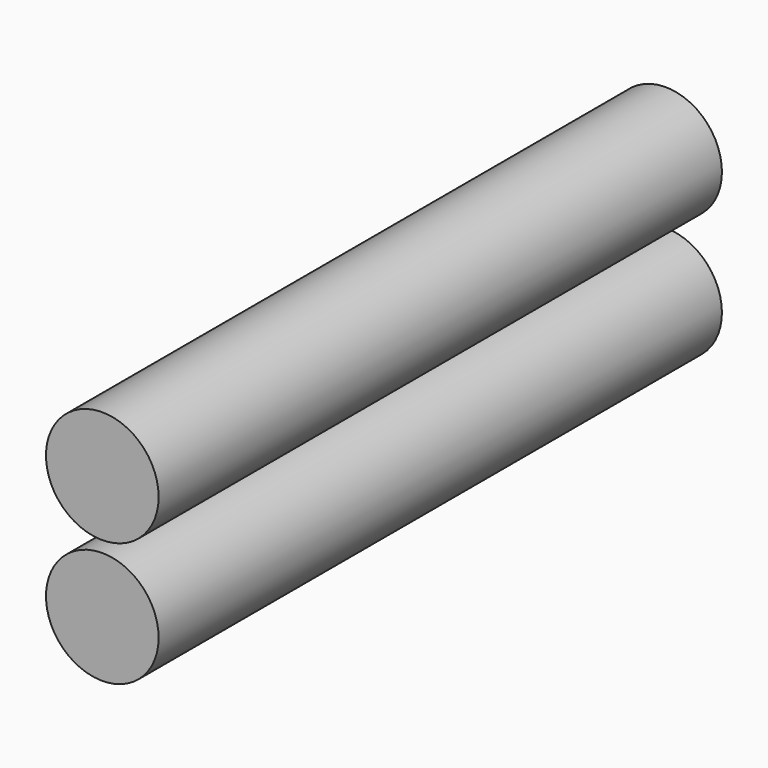
from build123d import *

# Parameters (mm, degrees)
CYLINDER001_R     = 4
CYLINDER001_DEPTH = 50
CYLINDER_R        = 4
CYLINDER_DEPTH    = 50


with BuildPart() as cylinder001:
    # Cylinder001 → Cylinder001 (new body)
    with BuildSketch(Plane(origin=(22.3, 0, 14.6), x_dir=(1, 0, 0), z_dir=(0, -1, 0))):
        Circle(CYLINDER001_R)
    extrude(amount=CYLINDER001_DEPTH)


with BuildPart() as fusion001:
    # Cylinder → Cylinder (new body)
    with BuildSketch(Plane(origin=(22.3, 0, 5.8), x_dir=(1, 0, 0), z_dir=(0, -1, 0))):
        Circle(CYLINDER_R)
    extrude(amount=CYLINDER_DEPTH)

    # Fusion001: union Cylinder001
    add(cylinder001.part)


with BuildPart() as fusion001_1:
    # Fusion001 placement: moved
    add(fusion001.part.moved(Location((0.8, -16.2, 0))))


solid = fusion001_1.part
